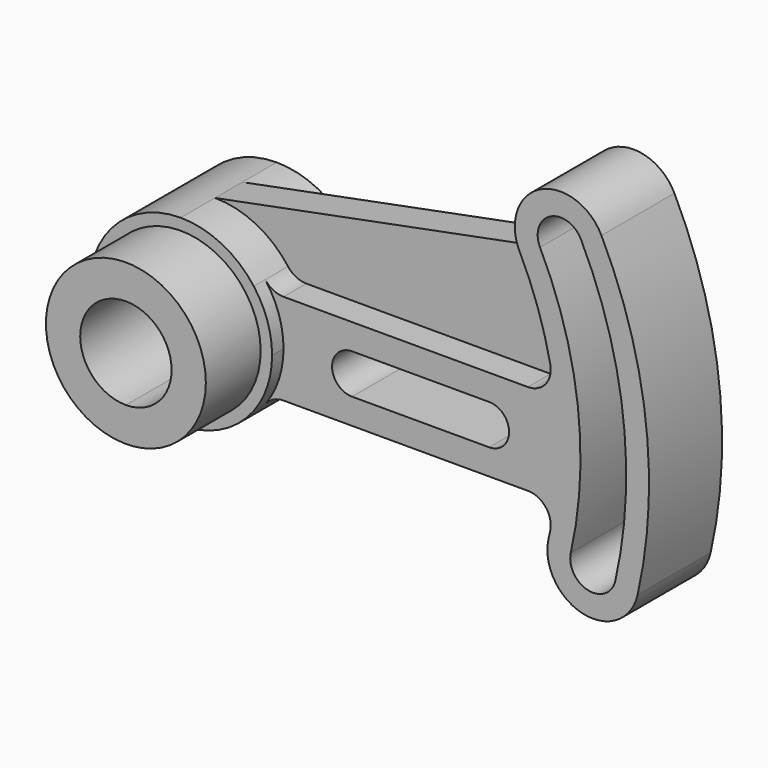
from build123d import *

# Parameters (mm, degrees)
F0_R     = 22.225
F1_DEPTH = 35.7124
F2_DEPTH = 16.6624
F3_DEPTH = 4.7625
F4_DEPTH = 12.6873


with BuildPart() as f1:
    # F0 (on Front) → F1 (new body)
    with BuildSketch(Plane.XZ):
        Circle(F0_R)
        with BuildLine():
            ThreePointArc((0, 12.7), (8.980256, 8.980256), (12.7, 0))
            ThreePointArc((12.7, 0), (8.980256, -8.980256), (0, -12.7))
            ThreePointArc((0, -12.7), (-12.7, 0), (0, 12.7))
        make_face(mode=Mode.SUBTRACT)
    extrude(amount=F1_DEPTH)

    # F0 (on Front) → F2 (join, symmetric)
    with BuildSketch(Plane.XZ):
        with BuildLine():
            ThreePointArc((20.32, -15.24), (24.096556, -8.032185), (25.4, 0))
            ThreePointArc((25.4, 0), (24.096556, 8.032185), (20.32, 15.24))
            ThreePointArc((20.32, 15.24), (11.359225, 22.718451), (0, 25.4))
            ThreePointArc((0, 25.4), (-22.718451, -11.359225), (20.32, -15.24))
        make_face()
        Circle(F0_R, mode=Mode.SUBTRACT)
    extrude(amount=F2_DEPTH, both=True)

    # F0 (on Front) → F3 (join, symmetric)
    with BuildSketch(Plane.XZ):
        with BuildLine():
            ThreePointArc((0, 25.4), (11.359225, 22.718451), (20.32, 15.24))
            ThreePointArc((20.32, 15.24), (22.560194, 13.370387), (25.4, 12.7))
            Line((25.4, 12.7), (93.325559, 12.7))
            ThreePointArc((93.325559, 12.7), (98.244248, 15.033907), (99.547263, 20.32))
            ThreePointArc((99.547263, 20.32), (96.086385, 33.014641), (91.013932, 45.155556))
            ThreePointArc((91.013932, 45.155556), (90.262515, 47.032005), (89.818321, 49.003903))
            ThreePointArc((89.818321, 49.003903), (88.705969, 44.424273), (84.743782, 41.872523))
            Line((84.743782, 41.872523), (0, 25.4))
        make_face()
    extrude(amount=F3_DEPTH, both=True)

    # F0 (on Front) → F4 (join, symmetric)
    with BuildSketch(Plane.XZ):
        with BuildLine():
            ThreePointArc((20.32, 15.24), (24.096556, 8.032185), (25.4, 0))
            ThreePointArc((25.4, 0), (24.096556, -8.032185), (20.32, -15.24))
            ThreePointArc((20.32, -15.24), (22.560194, -13.370387), (25.4, -12.7))
            Line((25.4, -12.7), (93.325559, -12.7))
            ThreePointArc((93.325559, -12.7), (98.244248, -15.033907), (99.547263, -20.32))
            ThreePointArc((99.547263, -20.32), (99.309847, -21.450275), (99.059598, -22.577778))
            ThreePointArc((99.059598, -22.577778), (108.619825, -37.78245), (123.824497, -28.222222))
            ThreePointArc((123.824497, -28.222222), (126.113403, 14.98031), (113.767415, 56.444444))
            ThreePointArc((113.767415, 56.444444), (98.622679, 62.928158), (89.818321, 49.003903))
            ThreePointArc((89.818321, 49.003903), (90.262515, 47.032005), (91.013932, 45.155556))
            ThreePointArc((91.013932, 45.155556), (96.086385, 33.014641), (99.547263, 20.32))
            ThreePointArc((99.547263, 20.32), (98.244248, 15.033907), (93.325559, 12.7))
            Line((93.325559, 12.7), (25.4, 12.7))
            ThreePointArc((25.4, 12.7), (22.560194, 13.370387), (20.32, 15.24))
        make_face()
        with BuildLine():
            ThreePointArc((44.45, -5.5499), (38.9001, 0), (44.45, 5.5499))
            Line((44.45, 5.5499), (82.55, 5.5499))
            ThreePointArc((82.55, 5.5499), (88.0999, 0), (82.55, -5.5499))
            Line((82.55, -5.5499), (44.45, -5.5499))
        make_face(mode=Mode.SUBTRACT)
        with BuildLine():
            ThreePointArc((96.702303, 47.977778), (99.568451, 56.488371), (108.079044, 53.622222))
            ThreePointArc((108.079044, 53.622222), (119.807732, 14.231294), (117.633273, -26.811111))
            ThreePointArc((117.633273, -26.811111), (110.030937, -31.591225), (105.250823, -23.988889))
            ThreePointArc((105.250823, -23.988889), (107.196392, 12.733263), (96.702303, 47.977778))
        make_face(mode=Mode.SUBTRACT)
    extrude(amount=F4_DEPTH, both=True)


solid = f1.part
